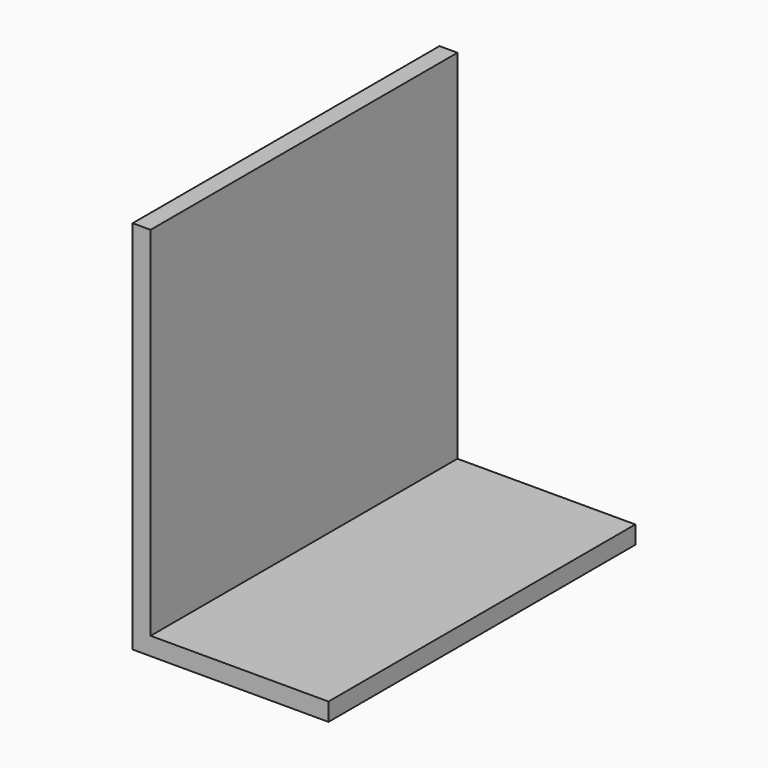
from build123d import *

# Parameters (mm, degrees)
F0_W     = 27.686
F0_H     = 2.794
F0_W_2   = 2.794
F0_H_2   = 55.626
F1_DEPTH = 29.845


with BuildPart() as f1:
    # F0 (on Front) → F1 (new body, symmetric)
    with BuildSketch(Plane.XZ):
        with Locations((-38.731212, 14.369345)):
            Rectangle(F0_W, F0_H)
        with Locations((-53.971212, 14.369345)):
            Rectangle(F0_W_2, F0_H)
        with Locations((-53.971212, 43.579345)):
            Rectangle(F0_W_2, F0_H_2)
    extrude(amount=F1_DEPTH, both=True)


solid = f1.part
